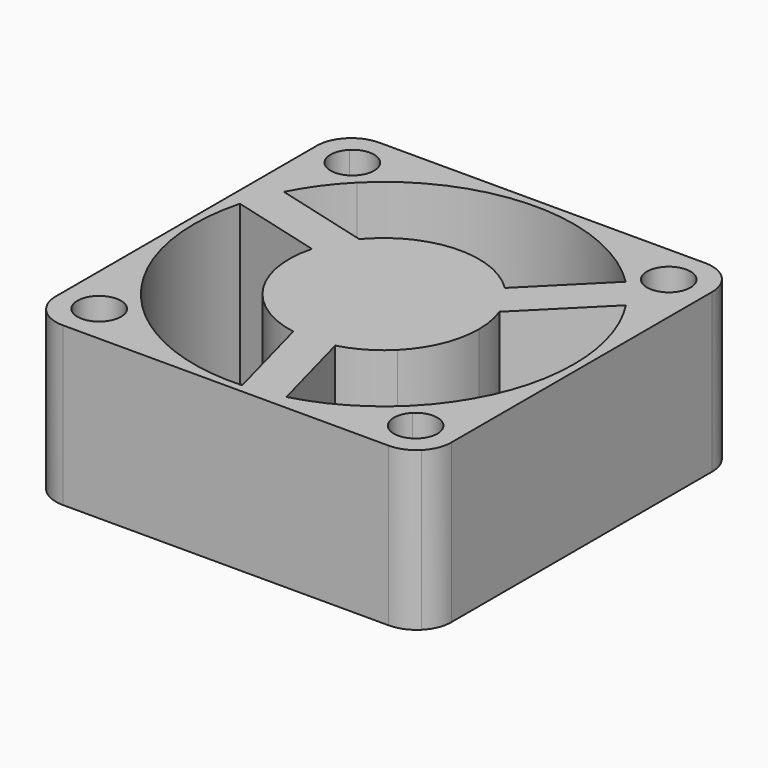
from build123d import *

# Parameters (mm, degrees)
F1_DEPTH = 10


with BuildPart() as f1:
    # F0 (on Top) → F1 (new body)
    with BuildSketch(Plane.XY):
        with BuildLine():
            ThreePointArc((-12.5, -10.3), (-12.3325349715, -11.1419035512), (-11.8556349186, -11.8556349186))
            Line((-11.8556349186, -11.8556349186), (-10.9722718241, -10.9722718241))
            ThreePointArc((-10.9722718241, -10.9722718241), (-10.9722718241, -9.0277281759), (-9.0277281759, -9.0277281759))
            Line((-9.0277281759, -9.0277281759), (-8.4852813742, -8.4852813742))
            ThreePointArc((-8.4852813742, -8.4852813742), (-11.5911099155, -3.1058285412), (-11.5911099155, 3.1058285412))
            ThreePointArc((-11.5911099155, 3.1058285412), (-11.2020379419, 4.3028299931), (-10.6897288112, 5.4524946533))
            ThreePointArc((-10.6897288112, 5.4524946533), (-9.7066834051, 7.0555153797), (-8.4852813742, 8.4852813742))
            Line((-8.4852813742, 8.4852813742), (-9.0277281759, 9.0277281759))
            ThreePointArc((-9.0277281759, 9.0277281759), (-10.9722718241, 9.0277281759), (-10.9722718241, 10.9722718241))
            Line((-10.9722718241, 10.9722718241), (-11.8556349186, 11.8556349186))
            ThreePointArc((-11.8556349186, 11.8556349186), (-12.3325349715, 11.1419035512), (-12.5, 10.3))
            Line((-12.5, 10.3), (-12.5, -10.3))
        make_face()
        with BuildLine():
            Line((-10.3, -12.5), (10.3, -12.5))
            ThreePointArc((10.3, -12.5), (11.1419035512, -12.3325349715), (11.8556349186, -11.8556349186))
            Line((11.8556349186, -11.8556349186), (10.9722718241, -10.9722718241))
            ThreePointArc((10.9722718241, -10.9722718241), (9.0277281759, -10.9722718241), (9.0277281759, -9.0277281759))
            Line((9.0277281759, -9.0277281759), (8.4852813742, -8.4852813742))
            ThreePointArc((8.4852813742, -8.4852813742), (6, -10.3923048454), (3.1058285412, -11.5911099155))
            ThreePointArc((3.1058285412, -11.5911099155), (1.8746588888, -11.8526644283), (0.6228655218, -11.9838240367))
            ThreePointArc((0.6228655218, -11.9838240367), (-4.3028299931, -11.2020379419), (-8.4852813742, -8.4852813742))
            Line((-8.4852813742, -8.4852813742), (-9.0277281759, -9.0277281759))
            ThreePointArc((-9.0277281759, -9.0277281759), (-8.7296656428, -9.4738102805), (-8.625, -10))
            ThreePointArc((-8.625, -10), (-9.4738102805, -11.2703343572), (-10.9722718241, -10.9722718241))
            Line((-10.9722718241, -10.9722718241), (-11.8556349186, -11.8556349186))
            ThreePointArc((-11.8556349186, -11.8556349186), (-11.1419035512, -12.3325349715), (-10.3, -12.5))
        make_face()
        with BuildLine():
            Line((10.9722718241, -10.9722718241), (11.8556349186, -11.8556349186))
            ThreePointArc((11.8556349186, -11.8556349186), (12.3325349715, -11.1419035512), (12.5, -10.3))
            Line((12.5, -10.3), (12.5, 10.3))
            ThreePointArc((12.5, 10.3), (12.3325349715, 11.1419035512), (11.8556349186, 11.8556349186))
            Line((11.8556349186, 11.8556349186), (10.9722718241, 10.9722718241))
            ThreePointArc((10.9722718241, 10.9722718241), (11.2703343572, 10.5261897195), (11.375, 10))
            ThreePointArc((11.375, 10), (10.5261897195, 8.7296656428), (9.0277281759, 9.0277281759))
            Line((9.0277281759, 9.0277281759), (8.4852813742, 8.4852813742))
            ThreePointArc((8.4852813742, 8.4852813742), (9.3273790531, 7.5498344353), (10.0668632893, 6.5313293834))
            ThreePointArc((10.0668632893, 6.5313293834), (11.5065711546, 3.4057040776), (12, 0))
            ThreePointArc((12, 0), (11.0865543901, -4.5922011884), (8.4852813742, -8.4852813742))
            Line((8.4852813742, -8.4852813742), (9.0277281759, -9.0277281759))
            ThreePointArc((9.0277281759, -9.0277281759), (10.5261897195, -8.7296656428), (11.375, -10))
            ThreePointArc((11.375, -10), (11.2703343572, -10.5261897195), (10.9722718241, -10.9722718241))
        make_face()
        with BuildLine():
            Line((10.9722718241, 10.9722718241), (11.8556349186, 11.8556349186))
            ThreePointArc((11.8556349186, 11.8556349186), (11.1419035512, 12.3325349715), (10.3, 12.5))
            Line((10.3, 12.5), (-10.3, 12.5))
            ThreePointArc((-10.3, 12.5), (-11.1419035512, 12.3325349715), (-11.8556349186, 11.8556349186))
            Line((-11.8556349186, 11.8556349186), (-10.9722718241, 10.9722718241))
            ThreePointArc((-10.9722718241, 10.9722718241), (-9.4738102805, 11.2703343572), (-8.625, 10))
            ThreePointArc((-8.625, 10), (-8.7296656428, 9.4738102805), (-9.0277281759, 9.0277281759))
            Line((-9.0277281759, 9.0277281759), (-8.4852813742, 8.4852813742))
            ThreePointArc((-8.4852813742, 8.4852813742), (0, 12), (8.4852813742, 8.4852813742))
            Line((8.4852813742, 8.4852813742), (9.0277281759, 9.0277281759))
            ThreePointArc((9.0277281759, 9.0277281759), (9.0277281759, 10.9722718241), (10.9722718241, 10.9722718241))
        make_face()
        with BuildLine():
            ThreePointArc((-10.6897288112, 5.4524946533), (-11.2020379419, 4.3028299931), (-11.5911099155, 3.1058285412))
            Line((-11.5911099155, 3.1058285412), (-5.7955549577, 1.5529142706))
            ThreePointArc((-5.7955549577, 1.5529142706), (-5.3311192747, 2.7530287465), (-4.6214557688, 3.8265057921))
            Line((-4.6214557688, 3.8265057921), (-10.6897288112, 5.4524946533))
        make_face()
        with BuildLine():
            Line((-5.7955549577, 1.5529142706), (0, 0))
            Line((0, 0), (-4.2426406871, 4.2426406871))
            ThreePointArc((-4.2426406871, 4.2426406871), (-4.4369295191, 4.0390167668), (-4.6214557688, 3.8265057921))
            ThreePointArc((-4.6214557688, 3.8265057921), (-5.3311192747, 2.7530287465), (-5.7955549577, 1.5529142706))
        make_face()
        with BuildLine():
            Line((-4.2426406871, 4.2426406871), (0, 0))
            Line((0, 0), (4.2426406871, 4.2426406871))
            ThreePointArc((4.2426406871, 4.2426406871), (0, 6), (-4.2426406871, 4.2426406871))
        make_face()
        with BuildLine():
            Line((0, 0), (4.2426406871, -4.2426406871))
            ThreePointArc((4.2426406871, -4.2426406871), (5.5432771951, -2.2961005942), (6, 0))
            ThreePointArc((6, 0), (5.9053989979, 1.0612552359), (5.6245791081, 2.0890452022))
            ThreePointArc((5.6245791081, 2.0890452022), (5.0497524692, 3.2403703492), (4.2426406871, 4.2426406871))
            Line((4.2426406871, 4.2426406871), (0, 0))
        make_face()
        with BuildLine():
            Line((5.6245791081, 2.0890452022), (10.0668632893, 6.5313293834))
            ThreePointArc((10.0668632893, 6.5313293834), (9.3273790531, 7.5498344353), (8.4852813742, 8.4852813742))
            Line((8.4852813742, 8.4852813742), (4.2426406871, 4.2426406871))
            ThreePointArc((4.2426406871, 4.2426406871), (5.0497524692, 3.2403703492), (5.6245791081, 2.0890452022))
        make_face()
        with BuildLine():
            ThreePointArc((1.5529142706, -5.7955549577), (3, -5.1961524227), (4.2426406871, -4.2426406871))
            Line((4.2426406871, -4.2426406871), (0, 0))
            Line((0, 0), (1.5529142706, -5.7955549577))
        make_face()
        with BuildLine():
            Line((0, 0), (-4.2426406871, -4.2426406871))
            ThreePointArc((-4.2426406871, -4.2426406871), (-2.7530287465, -5.3311192747), (-1.0031233393, -5.9155509943))
            ThreePointArc((-1.0031233393, -5.9155509943), (0.2813668055, -5.9933990957), (1.5529142706, -5.7955549577))
            Line((1.5529142706, -5.7955549577), (0, 0))
        make_face()
        with BuildLine():
            ThreePointArc((-5.7955549577, 1.5529142706), (-5.7955549577, -1.5529142706), (-4.2426406871, -4.2426406871))
            Line((-4.2426406871, -4.2426406871), (0, 0))
            Line((0, 0), (-5.7955549577, 1.5529142706))
        make_face()
        with BuildLine():
            ThreePointArc((0.6228655218, -11.9838240367), (1.8746588888, -11.8526644283), (3.1058285412, -11.5911099155))
            Line((3.1058285412, -11.5911099155), (1.5529142706, -5.7955549577))
            ThreePointArc((1.5529142706, -5.7955549577), (0.2813668055, -5.9933990957), (-1.0031233393, -5.9155509943))
            Line((-1.0031233393, -5.9155509943), (0.6228655218, -11.9838240367))
        make_face()
    extrude(amount=F1_DEPTH)


solid = f1.part
